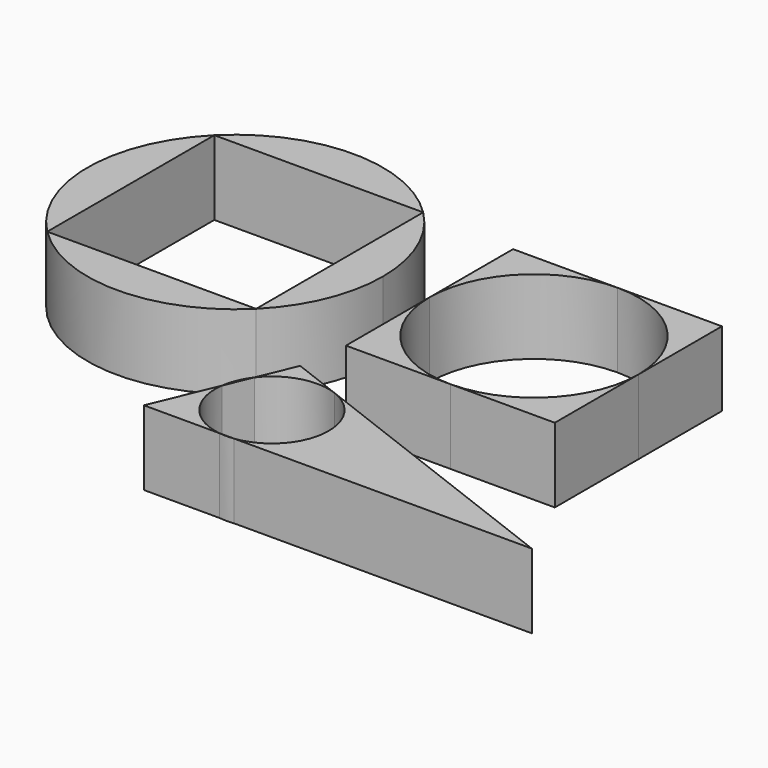
from build123d import *

# Parameters (mm, degrees)
F1_DEPTH = 25


with BuildPart() as f1:
    # F0 (on Top) → F1 (new body)
    with BuildSketch(Plane.XY):
        with BuildLine():
            Line((35, 70), (0, 70))
            Line((0, 70), (0, 35))
            ThreePointArc((0, 35), (10.2512626585, 59.7487373415), (35, 70))
        make_face()
    extrude(amount=F1_DEPTH)


with BuildPart() as f1b:
    # F0 (on Top) → F1, piece 2 (new body)
    with BuildSketch(Plane.XY):
        with BuildLine():
            Line((70, 70), (35, 70))
            ThreePointArc((35, 70), (59.7487373415, 59.7487373415), (70, 35))
            Line((70, 35), (70, 70))
        make_face()
    extrude(amount=F1_DEPTH)


with BuildPart() as f1c:
    # F0 (on Top) → F1, piece 3 (new body)
    with BuildSketch(Plane.XY):
        with BuildLine():
            Line((70, 0), (70, 35))
            ThreePointArc((70, 35), (59.7487373415, 10.2512626585), (35, 0))
            Line((35, 0), (70, 0))
        make_face()
    extrude(amount=F1_DEPTH)


with BuildPart() as f1d:
    # F0 (on Top) → F1, piece 4 (new body)
    with BuildSketch(Plane.XY):
        with BuildLine():
            ThreePointArc((35, 0), (10.2512626585, 10.2512626585), (0, 35))
            Line((0, 35), (0, 0))
            Line((0, 0), (35, 0))
        make_face()
    extrude(amount=F1_DEPTH)


with BuildPart() as f1e:
    # F0 (on Top) → F1, piece 5 (new body)
    with BuildSketch(Plane.XY):
        with BuildLine():
            Line((-101.3856899738, 71.5874359012), (-31.3856899738, 71.5874359012))
            ThreePointArc((-31.3856899738, 71.5874359012), (-66.3856899738, 86.0849105842), (-101.3856899738, 71.5874359012))
        make_face()
    extrude(amount=F1_DEPTH)


with BuildPart() as f1f:
    # F0 (on Top) → F1, piece 6 (new body)
    with BuildSketch(Plane.XY):
        with BuildLine():
            Line((-101.3856899738, 1.5874359012), (-101.3856899738, 71.5874359012))
            ThreePointArc((-101.3856899738, 71.5874359012), (-115.8831646569, 36.5874359012), (-101.3856899738, 1.5874359012))
        make_face()
    extrude(amount=F1_DEPTH)


with BuildPart() as f1g:
    # F0 (on Top) → F1, piece 7 (new body)
    with BuildSketch(Plane.XY):
        with BuildLine():
            ThreePointArc((-101.3856899738, 1.5874359012), (-66.3856899738, -12.9100387819), (-31.3856899738, 1.5874359012))
            Line((-31.3856899738, 1.5874359012), (-101.3856899738, 1.5874359012))
        make_face()
    extrude(amount=F1_DEPTH)


with BuildPart() as f1h:
    # F0 (on Top) → F1, piece 8 (new body)
    with BuildSketch(Plane.XY):
        with BuildLine():
            ThreePointArc((-16.8882152908, 36.5874359012), (-20.6559862032, 55.5292994063), (-31.3856899738, 71.5874359012))
            Line((-31.3856899738, 71.5874359012), (-31.3856899738, 1.5874359012))
            ThreePointArc((-31.3856899738, 1.5874359012), (-20.6559862032, 17.645572396), (-16.8882152908, 36.5874359012))
        make_face()
    extrude(amount=F1_DEPTH)


with BuildPart() as f1i:
    # F0 (on Top) → F1, piece 9 (new body)
    with BuildSketch(Plane.XY):
        with BuildLine():
            Line((-11.163129075, -37.9536021835), (-20.1483034852, -59.4556791562))
            Line((-20.1483034852, -59.4556791562), (5.2115566796, -59.4556791562))
            ThreePointArc((5.2115566796, -59.4556791562), (-7.4607551529, -52.1201226883), (-11.163129075, -37.9536021835))
        make_face()
    extrude(amount=F1_DEPTH)


with BuildPart() as f1j:
    # F0 (on Top) → F1, piece 10 (new body)
    with BuildSketch(Plane.XY):
        with BuildLine():
            Line((10.1235025519, -59.4556791562), (5.2115566796, -59.4556791562))
            ThreePointArc((5.2115566796, -59.4556791562), (7.6675296157, -59.6149474626), (10.1235025519, -59.4556791562))
        make_face()
    extrude(amount=F1_DEPTH)


with BuildPart() as f1k:
    # F0 (on Top) → F1, piece 11 (new body)
    with BuildSketch(Plane.XY):
        with BuildLine():
            ThreePointArc((26.6831441913, -40.5993328871), (21.9555566392, -53.1470769657), (10.1235025519, -59.4556791562))
            Line((10.1235025519, -59.4556791562), (109.8516965148, -59.4556791562))
            Line((109.8516965148, -59.4556791562), (14.4821184378, -22.846728096))
            ThreePointArc((14.4821184378, -22.846728096), (23.3387961921, -29.828771083), (26.6831441913, -40.5993328871))
        make_face()
    extrude(amount=F1_DEPTH)


with BuildPart() as f1l:
    # F0 (on Top) → F1, piece 12 (new body)
    with BuildSketch(Plane.XY):
        with BuildLine():
            Line((-2.1779546649, -16.4515252108), (-7.4468404723, -29.0602941695))
            ThreePointArc((-7.4468404723, -29.0602941695), (2.4835453273, -22.3039808932), (14.4821184378, -22.846728096))
            Line((14.4821184378, -22.846728096), (-2.1779546649, -16.4515252108))
        make_face()
    extrude(amount=F1_DEPTH)


with BuildPart() as f1m:
    # F0 (on Top) → F1, piece 13 (new body)
    with BuildSketch(Plane.XY):
        with BuildLine():
            ThreePointArc((-7.4468404723, -29.0602941695), (-9.8778109782, -33.2675785862), (-11.163129075, -37.9536021835))
            Line((-11.163129075, -37.9536021835), (-7.4468404723, -29.0602941695))
        make_face()
    extrude(amount=F1_DEPTH)


solid = Compound([f1.part, f1b.part, f1c.part, f1d.part, f1e.part, f1f.part, f1g.part, f1h.part, f1i.part, f1j.part, f1k.part, f1l.part, f1m.part])
